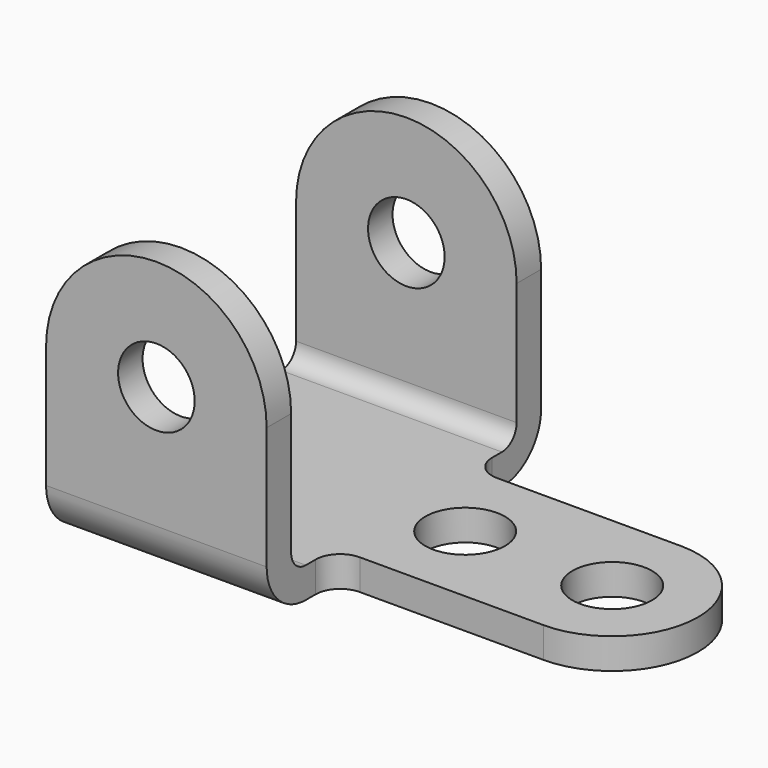
from build123d import *

# Parameters (mm, degrees)
F1_DEPTH  = 57.15
F3_DEPTH  = 7.9375
F5_DEPTH  = 7.9375
F6_R      = 9.92251
F7_DEPTH  = 88.901
F8_W      = 53.975
F8_H      = 44.45
F9_DEPTH  = 7.9375
F10_R     = 10.3251
F11_DEPTH = 7.9385
F12_R     = 4.7625
F13_R     = 12.7
F14_R     = 6.35


with BuildPart() as f1:
    # F0 (on Right) → F1 (new body)
    with BuildSketch(Plane.YZ):
        Polygon((0, 44.45), (0, 0), (88.9, 0), (88.9, 44.45), (80.9625, 44.45), (80.9625, 7.9375), (7.9375, 7.9375), (7.9375, 44.45), align=None)
    extrude(amount=F1_DEPTH)

    # F2 (on face) → F3 (join)
    with BuildSketch(Plane.XZ):
        with BuildLine():
            Line((0, 44.45), (57.15, 44.45))
            ThreePointArc((57.15, 44.45), (28.575, 73.025), (0, 44.45))
        make_face()
    extrude(amount=-F3_DEPTH)

    # F4 (on face) → F5 (join)
    with BuildSketch(Plane(origin=(0, 88.9, 0), x_dir=(-1, 0, 0), z_dir=(0, 1, 0))):
        with BuildLine():
            Line((-57.15, 44.45), (0, 44.45))
            ThreePointArc((0, 44.45), (-28.575, 73.025), (-57.15, 44.45))
        make_face()
    extrude(amount=-F5_DEPTH)

    # F6 (on face) → F7 (cut, through all)
    with BuildSketch(Plane.XZ):
        with Locations((28.575, 44.45)):
            Circle(F6_R)
    extrude(amount=-F7_DEPTH, mode=Mode.SUBTRACT)

    # F8 (on face) → F9 (join)
    with BuildSketch(Plane.XY.offset(7.9375)):
        with Locations((84.1375, 44.45)):
            Rectangle(F8_W, F8_H)
        with BuildLine():
            Line((111.125, 66.675), (111.125, 22.225))
            ThreePointArc((111.125, 22.225), (133.35, 44.45), (111.125, 66.675))
        make_face()
    extrude(amount=-F9_DEPTH)

    # F10 (on face) → F11 (cut, through all)
    with BuildSketch(Plane.XY.offset(7.9375)):
        with Locations((73.025, 44.45)):
            Circle(F10_R)
        with Locations((111.125, 44.45)):
            Circle(F10_R)
    extrude(amount=-F11_DEPTH, mode=Mode.SUBTRACT)

    # F12
    f12_edges = [f1.edges().sort_by_distance(p)[0] for p in [
        (28.575, 80.9625, 7.9375),
        (28.575, 7.9375, 7.9375),
    ]]
    fillet(f12_edges, radius=F12_R)

    # F13
    f13_edges = [f1.edges().sort_by_distance(p)[0] for p in [
        (28.575, 0, 0),
        (28.575, 88.9, 0),
    ]]
    fillet(f13_edges, radius=F13_R)

    # F14
    f14_edges = [f1.edges().sort_by_distance(p)[0] for p in [
        (57.15, 66.675, 3.96875),
        (57.15, 22.225, 3.96875),
    ]]
    fillet(f14_edges, radius=F14_R)


solid = f1.part
